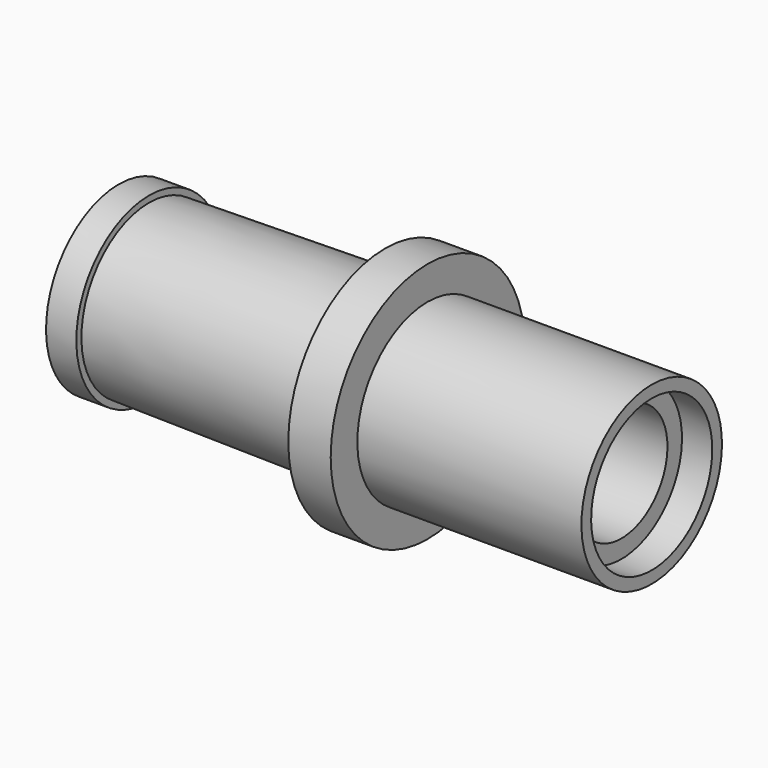
from build123d import *


with BuildPart() as f1:
    # F0 (on Front) → F1 (revolve)
    with BuildSketch(Plane.XZ):
        Polygon((-12.751503, 0), (-14.529503, 0), (-14.529503, -1.397), (-24.435503, -1.537287), (-24.435503, -1.27), (-25.705503, -1.27), (-25.705503, -1.905), (-19.355503, -1.905), (-19.355503, -2.667), (-14.529503, -2.667), (-14.529503, -5.08), (-13.005503, -5.08), (-13.005503, -2.667), (-4.623503, -2.667), (-4.623503, -1.905), (-3.353503, -1.905), (-3.353503, -1.397), (-12.751503, -1.397), align=None)
    revolve(axis=Axis((-13.767503, 0, -5.08), (-1, 0, 0)))


solid = f1.part
